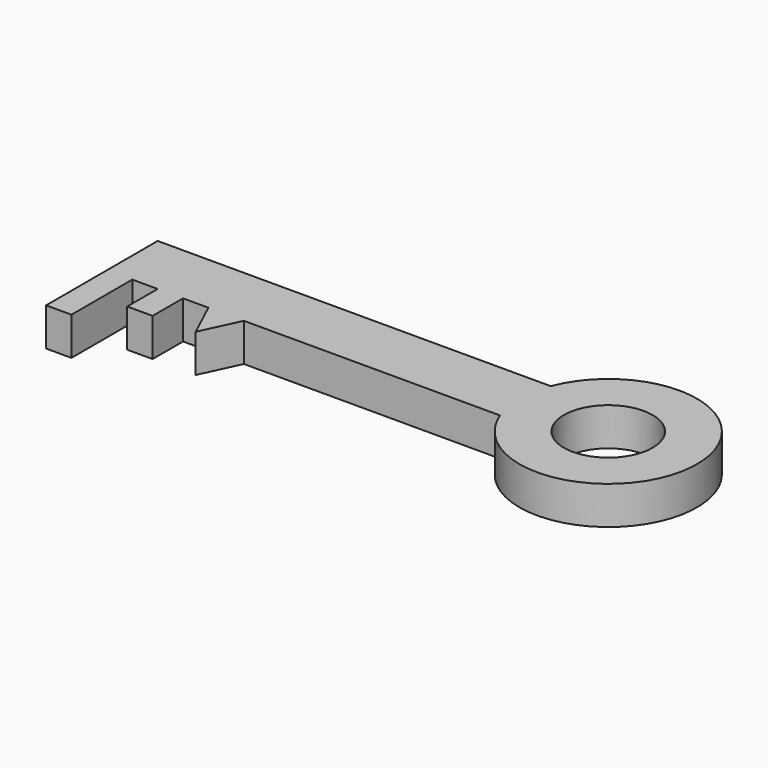
from build123d import *

# Parameters (mm, degrees)
F0_R     = 17.5
F0_W     = 10
F0_H     = 30
F0_H_2   = 15
F1_DEPTH = 15


with BuildPart() as f1:
    # F0 (on Top) → F1 (new body)
    with BuildSketch(Plane.XY):
        Polygon((-71.345889, 40), (-71.345889, 15), (-61.345889, 15), (-51.345889, 15), (-41.345889, 15), (-31.345889, 15), (-17.345889, 15), (83.654111, 15), (83.654111, 40), align=None)
        with BuildLine():
            ThreePointArc((83.654111, 15), (151.345853, 27.5), (83.654111, 40))
            Line((83.654111, 40), (83.654111, 15))
        make_face()
        with Locations((116.345853, 27.5)):
            Circle(F0_R, mode=Mode.SUBTRACT)
        with Locations((-66.345889, 0)):
            Rectangle(F0_W, F0_H)
        with Locations((-46.345889, 7.5)):
            Rectangle(F0_W, F0_H_2)
        Polygon((-17.345889, 15), (-31.345889, 15), (-24.345889, 0), align=None)
    extrude(amount=F1_DEPTH)


solid = f1.part
